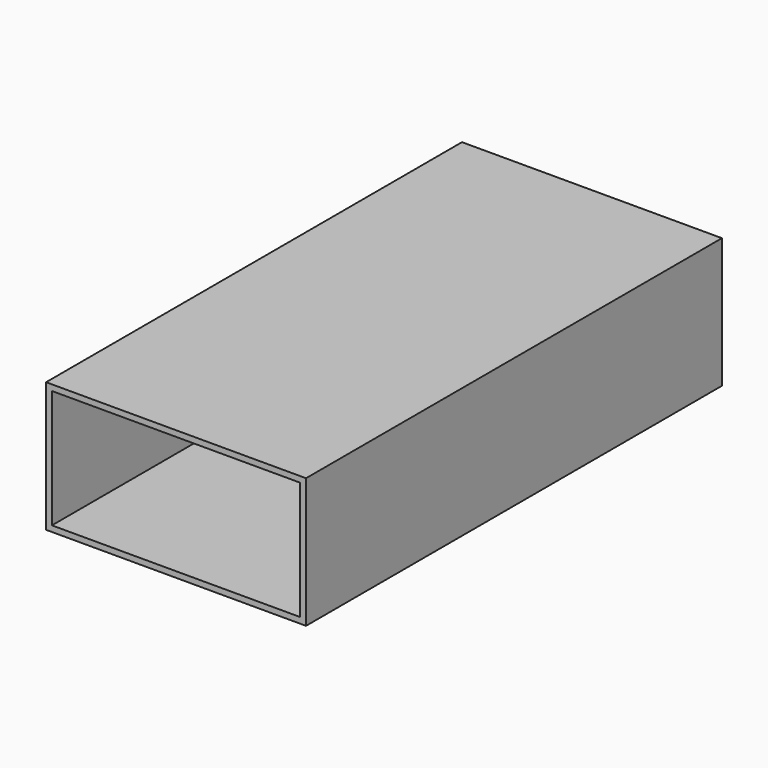
from build123d import *

# Parameters (mm, degrees)
F1_W     = 50.8
F1_H     = 25.4
F1_W_2   = 48.514
F1_H_2   = 23.114
F2_DEPTH = 101.6
F3_W     = 50.8
F3_H     = 25.4
F4_DEPTH = 22.86


with BuildPart() as f2:
    # F1 (on face) → F2 (new body)
    with BuildSketch(Plane.XZ):
        Rectangle(F1_W, F1_H)
        Rectangle(F1_W_2, F1_H_2, mode=Mode.SUBTRACT)
    extrude(amount=F2_DEPTH)

    # F3 (on Front) → F4 (join)
    with BuildSketch(Plane.XZ):
        Rectangle(F3_W, F3_H)
    extrude(amount=F4_DEPTH)


solid = f2.part
